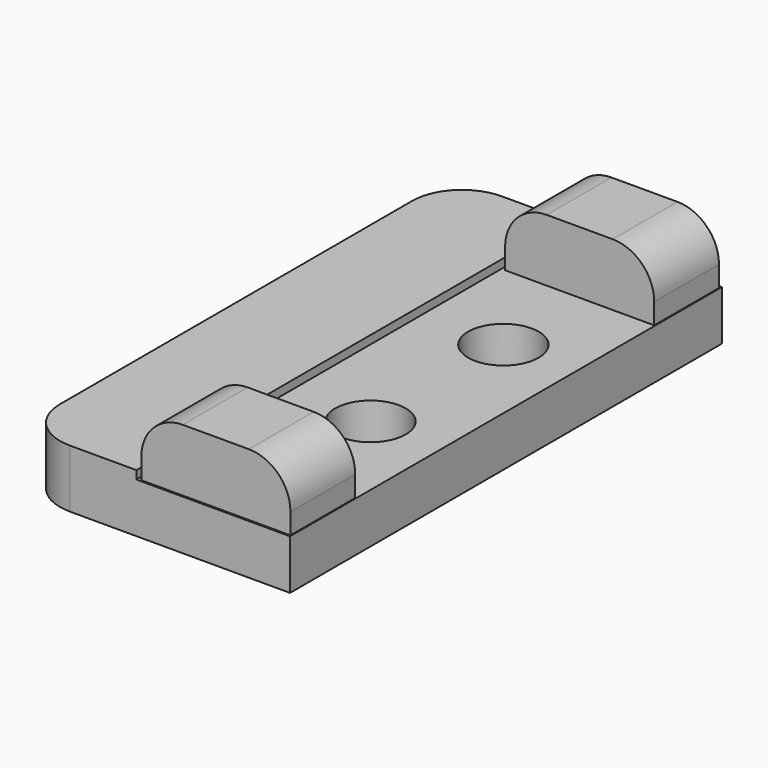
from build123d import *

# Parameters (mm, degrees)
PAD023_DEPTH    = 13
SKETCH050_R     = 0.85
POCKET025_DEPTH = 5
FILLET008_R     = 1.2
SKETCH061_W     = 3.59
SKETCH061_H     = 1.95
PAD032_DEPTH    = 1.5
FILLET011_R     = 1


with BuildPart() as part:
    # Sketch049 → Pad023 (new body)
    with BuildSketch(Plane.XZ.offset(-4)):
        Polygon((24.862594, 8.175321), (27.662594, 8.175321), (27.662594, 7.975321), (31.362594, 7.975321), (31.362594, 6.775321), (24.862594, 6.775321), align=None)
    extrude(amount=PAD023_DEPTH)

    # Sketch050 (on Face5 of Pad023) → Pocket025 (cut)
    with BuildSketch(Plane(origin=(0, 0, 6.775321), x_dir=(1, 0, 0), z_dir=(0, 0, -1))):
        with Locations((29.62, 4.4)):
            Circle(SKETCH050_R)
        with Locations((29.62, 0.4)):
            Circle(SKETCH050_R)
    extrude(amount=-POCKET025_DEPTH, mode=Mode.SUBTRACT)

    # Fillet008
    fillet008_edges = [part.edges().sort_by_distance(p)[0] for p in [
        (24.862594, -9, 7.475321),
        (24.862594, 4, 7.475321),
    ]]
    fillet(fillet008_edges, radius=FILLET008_R)

    # Sketch061 (on Face9 of Fillet008) → Pad032 (join)
    with BuildSketch(Plane(origin=(0, 0, 7.975321), x_dir=(-1, 0, 0), z_dir=(0, 0, 1))):
        with Locations((-29.547098, 7.987892)):
            Rectangle(SKETCH061_W, SKETCH061_H)
        with Locations((-29.547098, -2.962108)):
            Rectangle(SKETCH061_W, SKETCH061_H)
    extrude(amount=PAD032_DEPTH)

    # Fillet011
    fillet011_edges = [part.edges().sort_by_distance(p)[0] for p in [
        (27.752098, 2.962108, 9.475321),
        (31.342098, 2.962108, 9.475321),
        (27.752098, -7.987892, 9.475321),
        (31.342098, -7.987892, 9.475321),
    ]]
    fillet(fillet011_edges, radius=FILLET011_R)


with BuildPart() as part_1:
    # Body006 placement: moved
    add(part.part.moved(Location((0, -8.6, 0.6))))


solid = part_1.part
